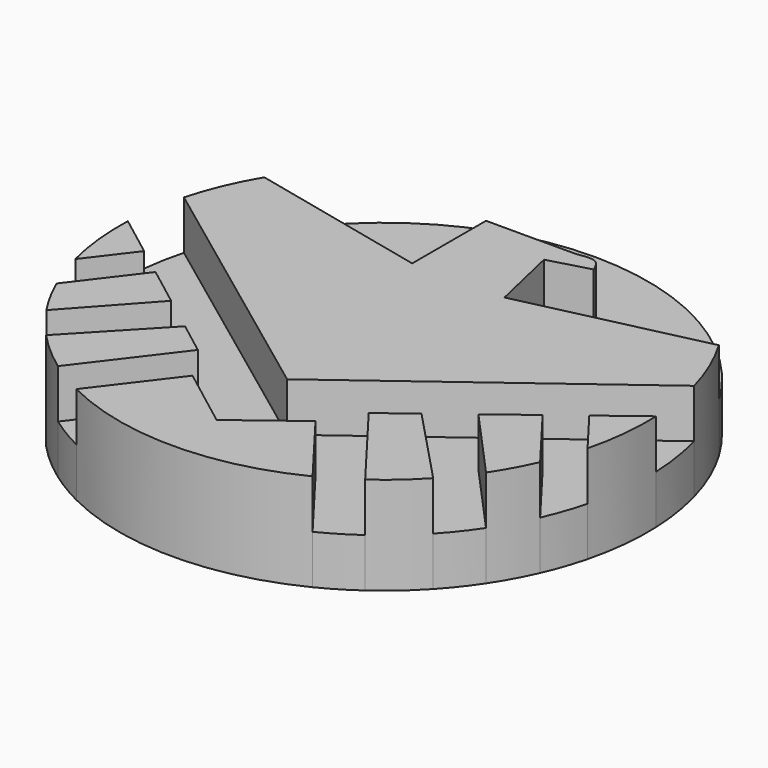
from build123d import *

# Parameters (mm, degrees)
F1_DEPTH = 25.4
F2_DEPTH = 12.7


with BuildPart() as f1:
    # F0 (on Top) → F1 (new body)
    with BuildSketch(Plane.XY):
        with BuildLine():
            ThreePointArc((-59.1347993745, 35.1122985584), (-63.3337577346, 26.8073336669), (-66.3730603731, 18.0115203087))
            Line((-66.3730603731, 18.0115203087), (0, -31.3885398209))
            Line((0, -31.3885398209), (66.3730603731, 18.0115203087))
            ThreePointArc((66.3730603731, 18.0115203087), (63.3337577346, 26.8073336669), (59.1347993745, 35.1122985584))
            Line((59.1347993745, 35.1122985584), (12.0048329489, 24.2962053983))
            Line((12.0048329489, 24.2962053983), (7.8694800897, 42.3155621592))
            Line((7.8694800897, 42.3155621592), (18.4638444334, 45.2364236116))
            add(Edge.make_bspline(
                [(11.3860378042, 48.313729465), (13.2458917171, 48.6271602597), (16.730228889, 49.2143561471), (17.9125959667, 46.5013114457), (18.4638444334, 45.2364236116)],
                knots=[0, 0, 0, 0, 0.5337755278, 1, 1, 1, 1], degree=3))
            Line((11.3860378042, 48.313729465), (-12.0048329489, 48.313729465))
            Line((-12.0048329489, 48.313729465), (-12.0048329489, 24.2962053983))
            Line((-12.0048329489, 24.2962053983), (-59.1347993745, 35.1122985584))
        make_face()
    extrude(amount=F1_DEPTH)


with BuildPart() as f1b:
    # F0 (on Top) → F1, piece 2 (new body)
    with BuildSketch(Plane.XY):
        with BuildLine():
            Line((-50.3623053931, -11.241866409), (-62.9231440041, -27.7574486535))
            ThreePointArc((-62.9231440041, -27.7574486535), (-60.2854203646, -33.0978261913), (-57.1955084894, -38.1899439087))
            Line((-57.1955084894, -38.1899439087), (-39.9692459516, -19.1462527265))
            Line((-39.9692459516, -19.1462527265), (-50.3623053931, -11.241866409))
        make_face()
    extrude(amount=F1_DEPTH)


with BuildPart() as f1c:
    # F0 (on Top) → F1, piece 3 (new body)
    with BuildSketch(Plane.XY):
        with BuildLine():
            ThreePointArc((-68.7197267242, 2.7197731651), (-68.3948849703, -7.2067827093), (-66.6436375776, -16.9830379362))
            Line((-66.6436375776, -16.9830379362), (-57.910899767, -5.5008229346))
            Line((-57.910899767, -5.5008229346), (-68.7197267242, 2.7197731651))
        make_face()
    extrude(amount=F1_DEPTH)


with BuildPart() as f1d:
    # F0 (on Top) → F1, piece 4 (new body)
    with BuildSketch(Plane.XY):
        with BuildLine():
            Line((-30.7649994294, -26.146493674), (-50.3623053931, -46.834135015))
            ThreePointArc((-50.3623053931, -46.834135015), (-45.3960092047, -51.662368852), (-39.9692459516, -55.9665738203))
            Line((-39.9692459516, -55.9665738203), (-22.2278628602, -32.6393676798))
            Line((-22.2278628602, -32.6393676798), (-30.7649994294, -26.146493674))
        make_face()
    extrude(amount=F1_DEPTH)


with BuildPart() as f1e:
    # F0 (on Top) → F1, piece 5 (new body)
    with BuildSketch(Plane.XY):
        with BuildLine():
            Line((-16.0019993782, -42.159114033), (-30.7310750928, -61.5255965494))
            ThreePointArc((-30.7310750928, -61.5255965494), (0, -68.7735269353), (30.7310750928, -61.5255965494))
            Line((30.7310750928, -61.5255965494), (16.0019993782, -42.159114033))
            Line((16.0019993782, -42.159114033), (0, -54.3293499149))
            Line((0, -54.3293499149), (-16.0019993782, -42.159114033))
        make_face()
    extrude(amount=F1_DEPTH)


with BuildPart() as f1f:
    # F0 (on Top) → F1, piece 6 (new body)
    with BuildSketch(Plane.XY):
        with BuildLine():
            Line((22.2278628602, -32.6393676798), (39.9692459516, -55.9665738203))
            ThreePointArc((39.9692459516, -55.9665738203), (45.3960092047, -51.662368852), (50.3623053931, -46.834135015))
            Line((50.3623053931, -46.834135015), (30.7649994294, -26.146493674))
            Line((30.7649994294, -26.146493674), (22.2278628602, -32.6393676798))
        make_face()
    extrude(amount=F1_DEPTH)


with BuildPart() as f1g:
    # F0 (on Top) → F1, piece 7 (new body)
    with BuildSketch(Plane.XY):
        with BuildLine():
            Line((39.9692459516, -19.1462527265), (57.1955084894, -38.1899439087))
            ThreePointArc((57.1955084894, -38.1899439087), (60.2854203646, -33.0978261913), (62.9231440041, -27.7574486535))
            Line((62.9231440041, -27.7574486535), (50.3623053931, -11.241866409))
            Line((50.3623053931, -11.241866409), (39.9692459516, -19.1462527265))
        make_face()
    extrude(amount=F1_DEPTH)


with BuildPart() as f1h:
    # F0 (on Top) → F1, piece 8 (new body)
    with BuildSketch(Plane.XY):
        with BuildLine():
            ThreePointArc((66.6436375776, -16.9830379362), (68.3948849703, -7.2067827093), (68.7197267242, 2.7197731651))
            Line((68.7197267242, 2.7197731651), (57.910899767, -5.5008229346))
            Line((57.910899767, -5.5008229346), (66.6436375776, -16.9830379362))
        make_face()
    extrude(amount=F1_DEPTH)


with BuildPart() as f2:
    # F0 (on Top) → F2 (new body)
    with BuildSketch(Plane.XY):
        with BuildLine():
            ThreePointArc((59.1347993745, 35.1122985584), (0, 68.7735269353), (-59.1347993745, 35.1122985584))
            Line((-59.1347993745, 35.1122985584), (-12.0048329489, 24.2962053983))
            Line((-12.0048329489, 24.2962053983), (-12.0048329489, 48.313729465))
            Line((-12.0048329489, 48.313729465), (11.3860378042, 48.313729465))
            add(Edge.make_bspline(
                [(11.3860378042, 48.313729465), (13.2458917171, 48.6271602597), (16.730228889, 49.2143561471), (17.9125959667, 46.5013114457), (18.4638444334, 45.2364236116)],
                knots=[0, 0, 0, 0, 0.5337755278, 1, 1, 1, 1], degree=3))
            Line((18.4638444334, 45.2364236116), (7.8694800897, 42.3155621592))
            Line((7.8694800897, 42.3155621592), (12.0048329489, 24.2962053983))
            Line((12.0048329489, 24.2962053983), (59.1347993745, 35.1122985584))
        make_face()
    extrude(amount=F2_DEPTH)


with BuildPart() as f2b:
    # F0 (on Top) → F2, piece 2 (new body)
    with BuildSketch(Plane.XY):
        with BuildLine():
            ThreePointArc((-66.6436375776, -16.9830379362), (-65.006997346, -22.4474564969), (-62.9231440041, -27.7574486535))
            Line((-62.9231440041, -27.7574486535), (-50.3623053931, -11.241866409))
            Line((-50.3623053931, -11.241866409), (-39.9692459516, -19.1462527265))
            Line((-39.9692459516, -19.1462527265), (-57.1955084894, -38.1899439087))
            Line((-57.1955084894, -38.1899439087), (-50.3623053931, -46.834135015))
            Line((-50.3623053931, -46.834135015), (-30.7649994294, -26.146493674))
            Line((-30.7649994294, -26.146493674), (-22.2278628602, -32.6393676798))
            Line((-22.2278628602, -32.6393676798), (-39.9692459516, -55.9665738203))
            ThreePointArc((-39.9692459516, -55.9665738203), (-35.4592658183, -58.9274000338), (-30.7310750928, -61.5255965494))
            Line((-30.7310750928, -61.5255965494), (-16.0019993782, -42.159114033))
            Line((-16.0019993782, -42.159114033), (0, -54.3293499149))
            Line((0, -54.3293499149), (16.0019993782, -42.159114033))
            Line((16.0019993782, -42.159114033), (30.7310750928, -61.5255965494))
            ThreePointArc((30.7310750928, -61.5255965494), (35.4592658183, -58.9274000338), (39.9692459516, -55.9665738203))
            Line((39.9692459516, -55.9665738203), (22.2278628602, -32.6393676798))
            Line((22.2278628602, -32.6393676798), (30.7649994294, -26.146493674))
            Line((30.7649994294, -26.146493674), (50.3623053931, -46.834135015))
            ThreePointArc((50.3623053931, -46.834135015), (53.9523061766, -42.6491109561), (57.1955084894, -38.1899439087))
            Line((57.1955084894, -38.1899439087), (39.9692459516, -19.1462527265))
            Line((39.9692459516, -19.1462527265), (50.3623053931, -11.241866409))
            Line((50.3623053931, -11.241866409), (62.9231440041, -27.7574486535))
            ThreePointArc((62.9231440041, -27.7574486535), (65.006997346, -22.4474564969), (66.6436375776, -16.9830379362))
            Line((66.6436375776, -16.9830379362), (57.910899767, -5.5008229346))
            Line((57.910899767, -5.5008229346), (68.7197267242, 2.7197731651))
            ThreePointArc((68.7197267242, 2.7197731651), (67.9777512434, 10.431842743), (66.3730603731, 18.0115203087))
            Line((66.3730603731, 18.0115203087), (0, -31.3885398209))
            Line((0, -31.3885398209), (-66.3730603731, 18.0115203087))
            ThreePointArc((-66.3730603731, 18.0115203087), (-67.9777512434, 10.431842743), (-68.7197267242, 2.7197731651))
            Line((-68.7197267242, 2.7197731651), (-57.910899767, -5.5008229346))
            Line((-57.910899767, -5.5008229346), (-66.6436375776, -16.9830379362))
        make_face()
    extrude(amount=F2_DEPTH)


solid = Compound([f1.part, f1b.part, f1c.part, f1d.part, f1e.part, f1f.part, f1g.part, f1h.part, f2.part, f2b.part])
